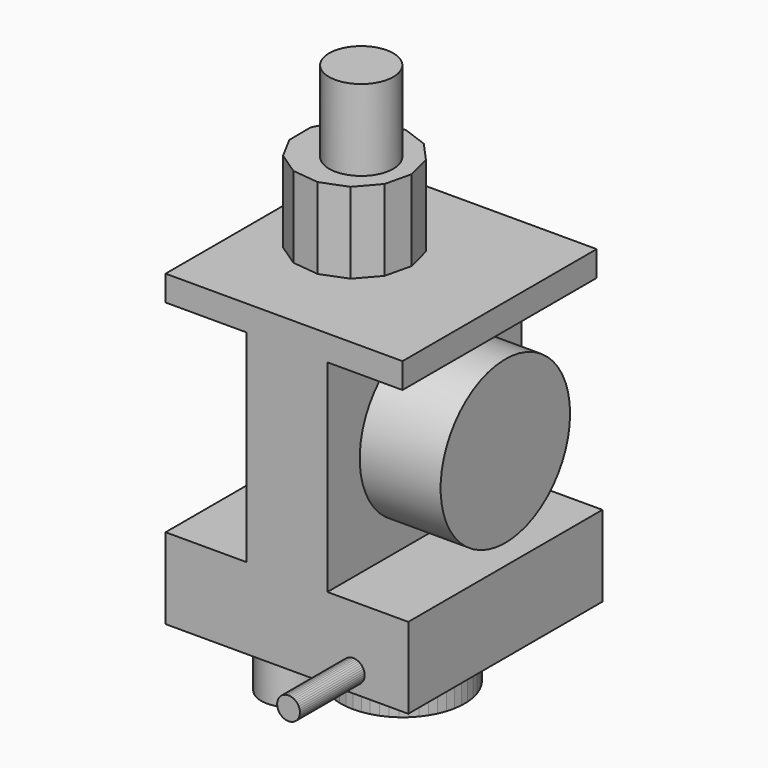
from build123d import *

# Parameters (mm, degrees)
F1_DEPTH  = 76.2
F2_R      = 25.4
F3_DEPTH  = 25.4
F5_DEPTH  = 25.4
F6_R      = 10.087603
F7_DEPTH  = 25.4
F9_DEPTH  = 25.4
F10_R     = 8.870052
F11_DEPTH = 25.4
F13_DEPTH = 25.4


with BuildPart() as f1:
    # F0 (on Front) → F1 (new body)
    with BuildSketch(Plane.XZ):
        Polygon((-43.63443, -7.957917), (-43.63443, -33.357917), (32.56557, -33.357917), (32.56557, -7.957917), (7.16557, -7.957917), (7.16557, 55.542083), (30.757195, 55.542083), (30.757195, 63.522073), (-43.63443, 63.522073), (-43.63443, 55.542083), (-18.23443, 55.542083), (-18.23443, -7.957917), align=None)
    extrude(amount=F1_DEPTH)

    # F2 (on face) → F3 (join)
    with BuildSketch(Plane.YZ.offset(7.16557)):
        with Locations((-38.1, 23.792083)):
            Circle(F2_R)
    extrude(amount=F3_DEPTH)

    # F4 (on face) → F5 (join)
    with BuildSketch(Plane.XY.offset(63.522073)):
        Polygon((-0.971111, -43.576736), (0.971111, -35.34374), (-1.135201, -27.151187), (-6.807516, -20.875895), (-14.746376, -17.955455), (-23.133083, -19.058907), (-30.046344, -23.933462), (-33.902414, -31.462418), (-33.817914, -39.920983), (-29.812201, -47.371402), (-22.802937, -52.106872), (-14.395859, -53.042555), (-6.516928, -49.964097), align=None)
    extrude(amount=F5_DEPTH)

    # F6 (on face) → F7 (join)
    with BuildSketch(Plane.XY.offset(88.922073)):
        with Locations((-14.400505, -35.959587)):
            Circle(F6_R)
    extrude(amount=F7_DEPTH)

    # F8 (on face) → F9 (join)
    with BuildSketch(Plane.XZ.offset(76.2)):
        Polygon((11.728236, -26.867476), (11.728236, -27.415208), (11.811846, -27.95652), (11.977108, -28.478726), (12.220148, -28.969584), (12.535268, -29.41759), (12.915083, -29.812243), (13.35069, -30.144292), (13.831879, -30.405954), (14.347372, -30.591096), (14.885084, -30.69538), (15.432414, -30.716359), (15.976532, -30.653544), (16.504684, -30.508405), (17.004492, -30.284345), (17.464239, -29.986616), (17.87315, -29.622196), (18.22164, -29.199627), (18.501541, -28.728813), (18.706292, -28.22079), (18.831095, -27.687467), (18.873023, -27.141342), (18.831095, -26.595217), (18.706292, -26.061893), (18.501541, -25.553871), (18.22164, -25.083057), (17.87315, -24.660488), (17.464239, -24.296068), (17.004492, -23.998339), (16.504684, -23.774279), (15.976532, -23.62914), (15.432414, -23.566325), (14.885084, -23.587304), (14.347372, -23.691587), (13.831879, -23.87673), (13.35069, -24.138392), (12.915083, -24.470441), (12.535268, -24.865094), (12.220148, -25.3131), (11.977108, -25.803958), (11.811846, -26.326163), align=None)
    extrude(amount=F9_DEPTH)

    # F10 (on face) → F11 (join)
    with BuildSketch(Plane(origin=(0, 0, -33.357917), x_dir=(1, 0, 0), z_dir=(0, 0, -1))):
        with Locations((-28.388368, 46.655256)):
            Circle(F10_R)
    extrude(amount=F11_DEPTH)

    # F12 (on face) → F13 (join)
    with BuildSketch(Plane(origin=(0, 0, -33.357917), x_dir=(1, 0, 0), z_dir=(0, 0, -1))):
        with BuildLine():
            Line((9.473382, 24.02906), (9.473382, 26.472044))
            Line((9.473382, 26.472044), (9.167195, 28.895765))
            Line((9.167195, 28.895765), (8.55965, 31.261998))
            Line((8.55965, 31.261998), (7.660328, 33.533427))
            Line((7.660328, 33.533427), (6.483411, 35.67423))
            Line((6.483411, 35.67423), (5.047461, 37.650645))
            Line((5.047461, 37.650645), (3.375124, 39.431504))
            Line((3.375124, 39.431504), (1.492772, 40.988721))
            Line((1.492772, 40.988721), (-0.569908, 42.297737))
            Line((-0.569908, 42.297737), (-2.780386, 43.337909))
            Line((-2.780386, 43.337909), (-5.103801, 44.092833))
            Line((-5.103801, 44.092833), (-7.503513, 44.550602))
            Line((-7.503513, 44.550602), (-9.941677, 44.703998))
            Line((-9.941677, 44.703998), (-12.37984, 44.550602))
            Line((-12.37984, 44.550602), (-14.779552, 44.092833))
            Line((-14.779552, 44.092833), (-17.102968, 43.337909))
            Line((-17.102968, 43.337909), (-19.313446, 42.297737))
            Line((-19.313446, 42.297737), (-21.376125, 40.988721))
            Line((-21.376125, 40.988721), (-22.157084, 40.342656))
            ThreePointArc((-22.157084, 40.342656), (-22.705241, 39.844977), (-23.292994, 39.394747))
            Line((-23.292994, 39.394747), (-24.930814, 37.650645))
            Line((-24.930814, 37.650645), (-26.366764, 35.67423))
            Line((-26.366764, 35.67423), (-27.543681, 33.533427))
            Line((-27.543681, 33.533427), (-28.443003, 31.261998))
            Line((-28.443003, 31.261998), (-29.050549, 28.895765))
            Line((-29.050549, 28.895765), (-29.356736, 26.472044))
            Line((-29.356736, 26.472044), (-29.356736, 24.02906))
            Line((-29.356736, 24.02906), (-29.050549, 21.60534))
            Line((-29.050549, 21.60534), (-28.443003, 19.239107))
            Line((-28.443003, 19.239107), (-27.543681, 16.967678))
            Line((-27.543681, 16.967678), (-26.366764, 14.826875))
            Line((-26.366764, 14.826875), (-24.930814, 12.850459))
            Line((-24.930814, 12.850459), (-23.258477, 11.0696))
            Line((-23.258477, 11.0696), (-21.376125, 9.512384))
            Line((-21.376125, 9.512384), (-19.313446, 8.203367))
            Line((-19.313446, 8.203367), (-17.102968, 7.163196))
            Line((-17.102968, 7.163196), (-14.779552, 6.408272))
            Line((-14.779552, 6.408272), (-12.37984, 5.950502))
            Line((-12.37984, 5.950502), (-9.941677, 5.797106))
            Line((-9.941677, 5.797106), (-7.503513, 5.950502))
            Line((-7.503513, 5.950502), (-5.103801, 6.408272))
            Line((-5.103801, 6.408272), (-2.780386, 7.163196))
            Line((-2.780386, 7.163196), (-0.569908, 8.203367))
            Line((-0.569908, 8.203367), (1.492772, 9.512384))
            Line((1.492772, 9.512384), (3.375124, 11.0696))
            Line((3.375124, 11.0696), (5.047461, 12.850459))
            Line((5.047461, 12.850459), (6.483411, 14.826875))
            Line((6.483411, 14.826875), (7.660328, 16.967678))
            Line((7.660328, 16.967678), (8.55965, 19.239107))
            Line((8.55965, 19.239107), (9.167195, 21.60534))
            Line((9.167195, 21.60534), (9.473382, 24.02906))
        make_face()
    extrude(amount=F13_DEPTH)


solid = f1.part
